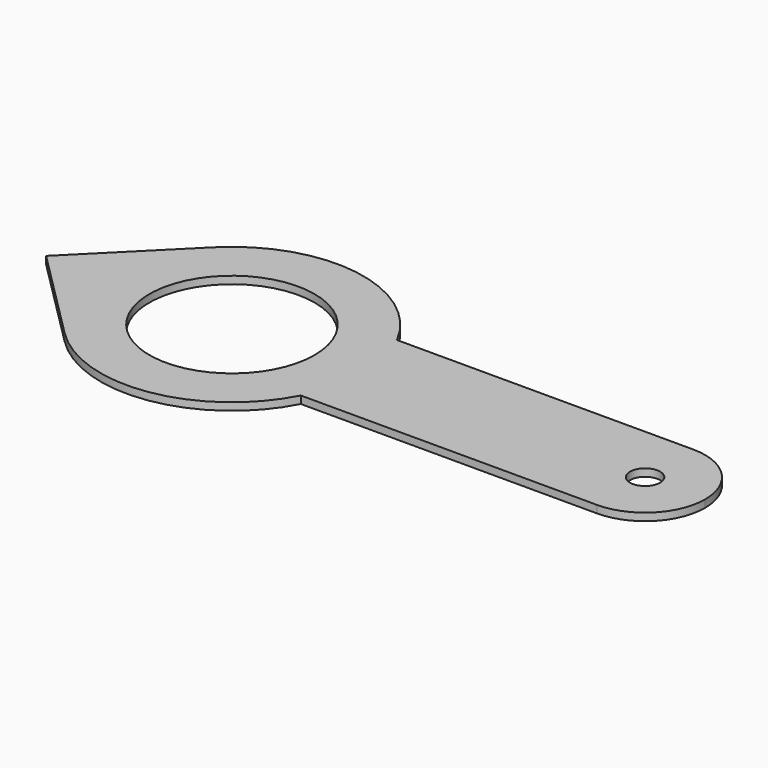
from build123d import *

# Parameters (mm, degrees)
F0_R     = 11
F0_R_2   = 2
F1_DEPTH = 1


with BuildPart() as f1:
    # F0 (on Top) → F1 (new body)
    with BuildSketch(Plane.XY):
        with BuildLine():
            ThreePointArc((-37.5, 0), (-37.990786, 4.115417), (-39.435618, 8))
            ThreePointArc((-39.435618, 8), (-52.293005, 17.289366), (-67.374369, 12.374369))
            ThreePointArc((-67.374369, 12.374369), (-72.5, 0), (-67.374369, -12.374369))
            ThreePointArc((-67.374369, -12.374369), (-52.293005, -17.289366), (-39.435618, -8))
            ThreePointArc((-39.435618, -8), (-37.990786, -4.115417), (-37.5, 0))
        make_face()
        with Locations((-55, 0)):
            Circle(F0_R, mode=Mode.SUBTRACT)
        with BuildLine():
            ThreePointArc((-67.374369, -12.374369), (-72.5, 0), (-67.374369, 12.374369))
            Line((-67.374369, 12.374369), (-79.748737, 0))
            Line((-79.748737, 0), (-67.374369, -12.374369))
        make_face()
        with BuildLine():
            ThreePointArc((0, -8), (-8, 0), (0, 8))
            Line((0, 8), (-39.435618, 8))
            ThreePointArc((-39.435618, 8), (-37.990786, 4.115417), (-37.5, 0))
            ThreePointArc((-37.5, 0), (-37.990786, -4.115417), (-39.435618, -8))
            Line((-39.435618, -8), (0, -8))
        make_face()
        with BuildLine():
            ThreePointArc((0, -8), (5.656854, -5.656854), (8, 0))
            ThreePointArc((8, 0), (5.656854, 5.656854), (0, 8))
            ThreePointArc((0, 8), (-8, 0), (0, -8))
        make_face()
        Circle(F0_R_2, mode=Mode.SUBTRACT)
    extrude(amount=F1_DEPTH)


solid = f1.part
